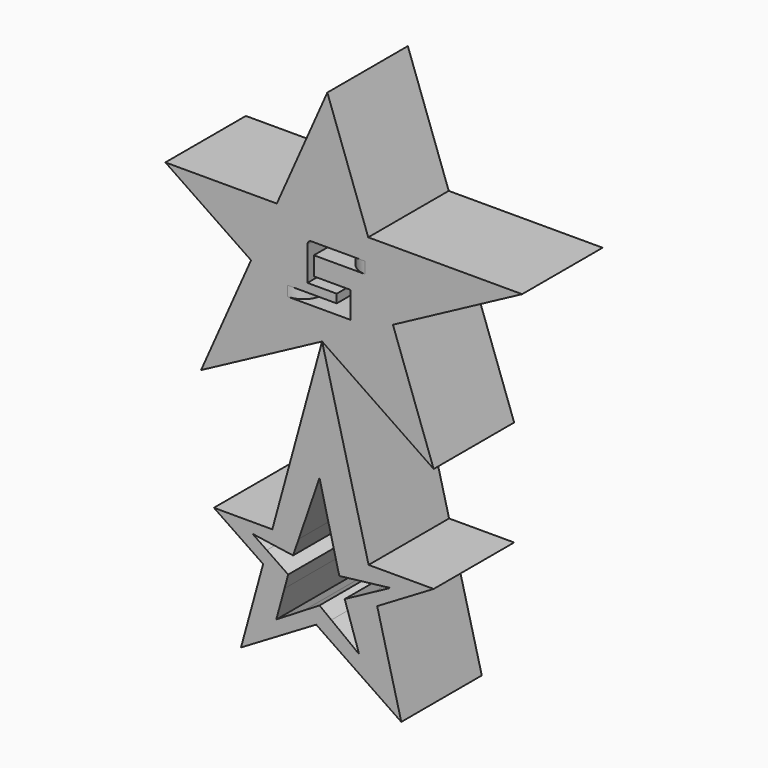
from build123d import *

# Parameters (mm, degrees)
F1_DEPTH = 25.4
F2_R     = 5


with BuildPart() as f1:
    # F0 (on Front) → F1 (new body)
    with BuildSketch(Plane.XZ):
        Polygon((49.1790995002, 35.1279303432), (46.2968088686, 35.1279303432), (10.3235928391, 35.1279303432), (16.5555316669, 17.7286936407), align=None)
        Polygon((16.5555316669, 17.7286936407), (10.3235928391, 35.1279303432), (-12.7541388096, 35.1279303432), (-19.2688434451, 20.4054333779), (-1.3283445484, 8.1906260382), align=None)
        with BuildLine():
            Line((4.523080308, 26.6788955778), (-3.4032228868, 26.6788955778))
            Line((-3.4032228868, 26.6788955778), (-3.4032228868, 21.9951700419))
            Line((-3.4032228868, 21.9951700419), (5.7840845548, 21.9951700419))
            Line((5.7840845548, 21.9951700419), (5.7840845548, 15.3298713267))
            Line((5.7840845548, 15.3298713267), (-5.0245104358, 15.3298713267))
            Line((-5.0245104358, 15.3298713267), (-5.0245104358, 17.8518760949))
            Line((-5.0245104358, 17.8518760949), (2.361360006, 17.8518760949))
            Line((2.361360006, 17.8518760949), (2.361360006, 20.0135931373))
            Line((2.361360006, 20.0135931373), (-5.0245104358, 20.0135931373))
            Line((-5.0245104358, 20.0135931373), (-5.0245104358, 28.5703968839))
            ThreePointArc((-5.0245104358, 28.5703968839), (-4.7343155066, 29.2709894175), (-4.033722973, 29.5611843467))
            Line((-4.033722973, 29.5611843467), (4.523080308, 29.5611843467))
            Line((4.523080308, 29.5611843467), (4.523080308, 26.6788955778))
        make_face(mode=Mode.SUBTRACT)
        Polygon((-12.7541388096, 35.1279303432), (10.3235928391, 35.1279303432), (0, 63.9508441091), align=None)
        Polygon((-19.2688434451, 20.4054333779), (-12.7541388096, 35.1279303432), (-40.8925116062, 35.1279303432), align=None)
        Polygon((26.8413424492, -10.9887346625), (16.5555316669, 17.7286936407), (-1.3283445484, 8.1906260382), align=None)
        Polygon((-1.3283445484, 8.1906260382), (-19.2688434451, 20.4054333779), (-31.8853482604, -8.1064430997), align=None)
    extrude(amount=F1_DEPTH)

    # F2
    f2_edges = [f1.edges().sort_by_distance(p)[0] for p in [
        (4.52308, -25.4, 28.12004),
        (-5.02451, -25.4, 16.590874),
    ]]
    fillet(f2_edges, radius=F2_R)


with BuildPart() as f1b:
    # F0 (on Front) → F1, piece 2 (new body)
    with BuildSketch(Plane.XZ):
        Polygon((10.4162836419, -37.6499332488), (-1.3283445484, 8.1906260382), (-13.8955292601, -37.6499332488), (-7.2372480791, -37.6499332488), (-1.9815720152, -22.360695526), (1.8119977779, -37.6499332488), align=None)
        Polygon((11.4079817904, -41.5206388203), (10.4162836419, -37.6499332488), (1.8119977779, -37.6499332488), (3.0173268169, -42.5077751279), align=None)
        Polygon((26.8413424492, -37.6499332488), (10.4162836419, -37.6499332488), (11.4079817904, -41.5206388203), (15.8932786435, -40.9929566085), (11.8338640357, -43.1829034745), (12.5813226534, -46.1003156331), align=None)
        Polygon((-14.7752227033, -40.8587377953), (-13.8955292601, -37.6499332488), (-28.6427699029, -37.6499332488), (-16.2152002989, -46.1112569437), (-15.2856142355, -42.7204621056), (-18.9018275167, -40.2583595308), align=None)
        Polygon((-7.2372480791, -37.6499332488), (-13.8955292601, -37.6499332488), (-14.7752227033, -40.8587377953), (-8.6467713118, -41.7503640056), align=None)
        Polygon((5.4142316133, -50.3474808362), (12.5813226534, -46.1003156331), (11.8338640357, -43.1829034745), (4.3806629255, -47.2037084401), align=None)
        Polygon((18.6693164167, -69.8624164442), (12.5813226534, -46.1003156331), (5.4142316133, -50.3474808362), (8.0162258819, -58.2618825138), (1.0124164531, -52.9559639815), (-2.8234295545, -55.2290579881), align=None)
        Polygon((-15.2856142355, -42.7204621056), (-16.2152002989, -46.1112569437), (-10.8144243158, -49.7883808909), (-9.8848382524, -46.3975860528), align=None)
        Polygon((-10.8144243158, -49.7883808909), (-16.2152002989, -46.1112569437), (-21.7973291874, -66.47285074), (-2.8234295545, -55.2290579881), (-5.9402384881, -53.1069753828), (-12.888261117, -57.352989912), align=None)
        Polygon((-5.9402384881, -53.1069753828), (-2.8234295545, -55.2290579881), (1.0124164531, -52.9559639815), (-1.9815720152, -50.687789917), align=None)
    extrude(amount=F1_DEPTH)


solid = Compound([f1.part, f1b.part])
